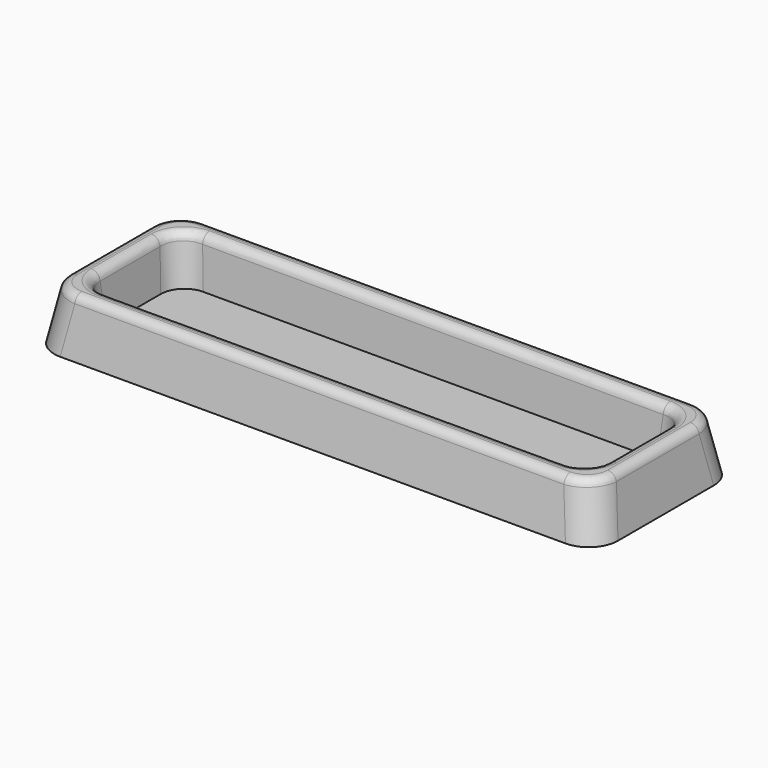
from build123d import *

# Parameters (mm, degrees)
F0_W     = 190
F0_H     = 60
F1_DEPTH = 18
F1_TAPER = 10
F2_W     = 171.6522286945
F2_H     = 41.6522286945
F3_DEPTH = 16
F3_TAPER = 5
F4_W     = 171.6522286945
F4_H     = 41.6522286945
F5_DEPTH = 16
F5_TAPER = 5
F6_R     = 8
F7_R     = 10
F8_R     = 3


with BuildPart() as f1:
    # F0 (on Top) → F1 (new body)
    with BuildSketch(Plane.XY):
        with Locations((95, 30)):
            Rectangle(F0_W, F0_H)
    extrude(amount=F1_DEPTH, taper=F1_TAPER)

    # F2 (on face) → F3 (join)
    with BuildSketch(Plane.XY.offset(18)):
        with Locations((95, 30)):
            Rectangle(F2_W, F2_H)
    extrude(amount=-F3_DEPTH, taper=F3_TAPER)

    # F4 (on face) → F5 (cut)
    with BuildSketch(Plane.XY.offset(18)):
        with Locations((95, 30)):
            Rectangle(F4_W, F4_H)
    extrude(amount=-F5_DEPTH, taper=F5_TAPER, mode=Mode.SUBTRACT)

    # F6
    f6_edges = [f1.edges().sort_by_distance(p)[0] for p in [
        (9.873795, 50.126205, 10),
        (9.873795, 9.873795, 10),
        (180.126205, 9.873795, 10),
        (180.126205, 50.126205, 10),
    ]]
    fillet(f6_edges, radius=F6_R)

    # F7
    f7_edges = [f1.edges().sort_by_distance(p)[0] for p in [
        (1.586943, 58.413057, 9),
        (1.586943, 1.586943, 9),
        (188.413057, 1.586943, 9),
        (188.413057, 58.413057, 9),
    ]]
    fillet(f7_edges, radius=F7_R)

    # F8
    f8_edges = [f1.edges().sort_by_distance(p)[0] for p in [
        (95, 9.173886, 18),
        (95, 3.173886, 18),
    ]]
    fillet(f8_edges, radius=F8_R)


solid = f1.part
